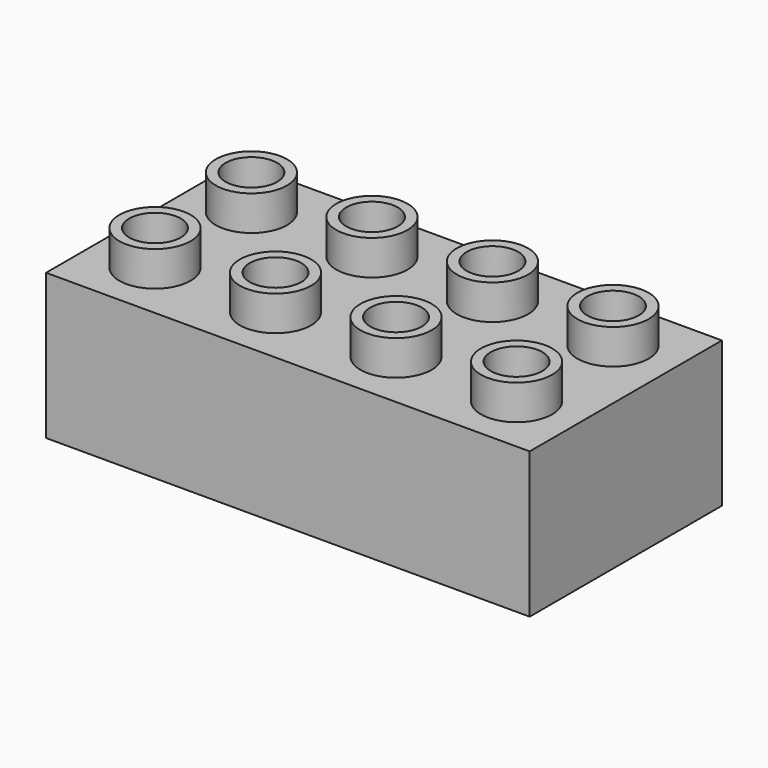
from build123d import *

# Parameters (mm, degrees)
F0_W     = 63.8
F0_H     = 31.7
F1_DEPTH = 19.2
F2_R     = 4.7
F2_R_2   = 3.4
F3_DEPTH = 4.6


with BuildPart() as f1:
    # F0 (on Top) → F1 (new body)
    with BuildSketch(Plane.XY):
        Rectangle(F0_W, F0_H)
    extrude(amount=F1_DEPTH)

    # F2 (on face) → F3 (join)
    with BuildSketch(Plane.XY.offset(19.2)):
        with Locations((7.95, 7.95)):
            Circle(F2_R)
        with Locations((7.95, 7.95)):
            Circle(F2_R_2, mode=Mode.SUBTRACT)
        with Locations((-7.95, 7.95)):
            Circle(F2_R)
        with Locations((-7.95, 7.95)):
            Circle(F2_R_2, mode=Mode.SUBTRACT)
        with Locations((-23.85, 7.95)):
            Circle(F2_R)
        with Locations((-23.85, 7.95)):
            Circle(F2_R_2, mode=Mode.SUBTRACT)
        with Locations((23.85, 7.95)):
            Circle(F2_R)
        with Locations((23.85, 7.95)):
            Circle(F2_R_2, mode=Mode.SUBTRACT)
        with Locations((7.95, -7.95)):
            Circle(F2_R)
        with Locations((7.95, -7.95)):
            Circle(F2_R_2, mode=Mode.SUBTRACT)
        with Locations((-23.85, -7.95)):
            Circle(F2_R)
        with Locations((-23.85, -7.95)):
            Circle(F2_R_2, mode=Mode.SUBTRACT)
        with Locations((23.85, -7.95)):
            Circle(F2_R)
        with Locations((23.85, -7.95)):
            Circle(F2_R_2, mode=Mode.SUBTRACT)
        with Locations((-7.95, -7.95)):
            Circle(F2_R)
        with Locations((-7.95, -7.95)):
            Circle(F2_R_2, mode=Mode.SUBTRACT)
    extrude(amount=F3_DEPTH)


solid = f1.part
